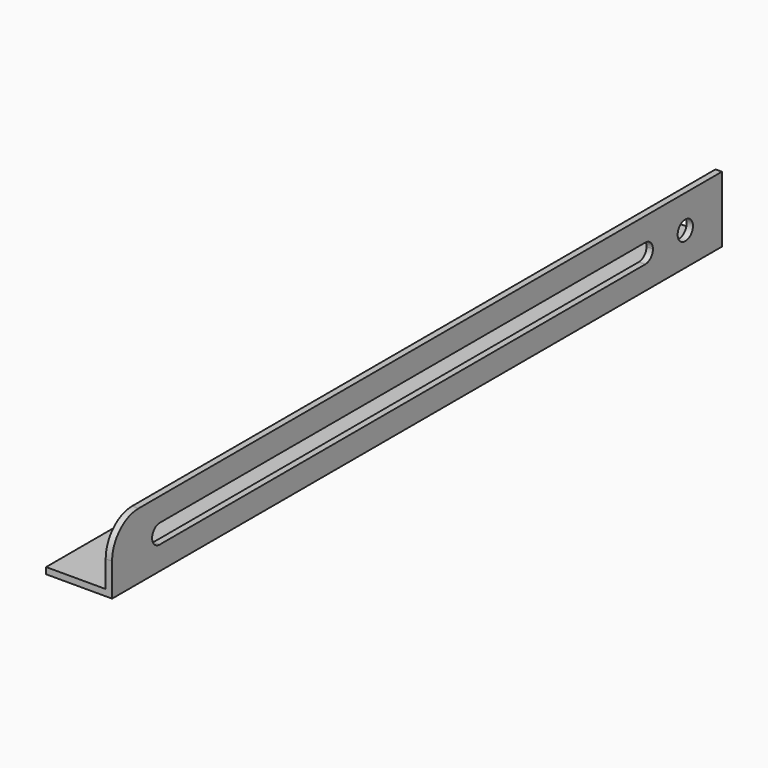
from build123d import *

# Parameters (mm, degrees)
F4_DEPTH = 358
F5_R     = 4.5
F6_DEPTH = 3


with BuildPart() as f4:
    # F3 (on Front) → F4 (new body)
    with BuildSketch(Plane.XZ):
        Polygon((-31, 0), (0, 0), (0, 31), (-3, 31), (-3, 3), (-31, 3), align=None)
    extrude(amount=F4_DEPTH)

    # F5 (on face) → F6 (cut, through all)
    with BuildSketch(Plane.YZ):
        with BuildLine():
            ThreePointArc((-330, 11), (-326.8180194847, 12.3180194847), (-325.5, 15.5))
            ThreePointArc((-325.5, 15.5), (-326.8180194847, 18.6819805153), (-330, 20))
            ThreePointArc((-330, 20), (-334.5, 15.5), (-330, 11))
        make_face()
        with Locations((-21.5, 15.5)):
            Circle(F5_R)
        with BuildLine():
            ThreePointArc((-330, 20), (-326.8180194847, 18.6819805153), (-325.5, 15.5))
            ThreePointArc((-325.5, 15.5), (-326.8180194847, 12.3180194847), (-330, 11))
            Line((-330, 11), (-45, 11))
            ThreePointArc((-45, 11), (-49.5, 15.5), (-45, 20))
            Line((-45, 20), (-330, 20))
        make_face()
        with BuildLine():
            ThreePointArc((-40.5, 15.5), (-41.8180194847, 18.6819805153), (-45, 20))
            ThreePointArc((-45, 20), (-49.5, 15.5), (-45, 11))
            ThreePointArc((-45, 11), (-41.8180194847, 12.3180194847), (-40.5, 15.5))
        make_face()
        with BuildLine():
            Line((-358, 31), (-358, 15.5))
            ThreePointArc((-358, 15.5), (-353.4601551084, 26.4601551084), (-342.5, 31))
            Line((-342.5, 31), (-358, 31))
        make_face()
    extrude(amount=-F6_DEPTH, mode=Mode.SUBTRACT)


solid = f4.part
